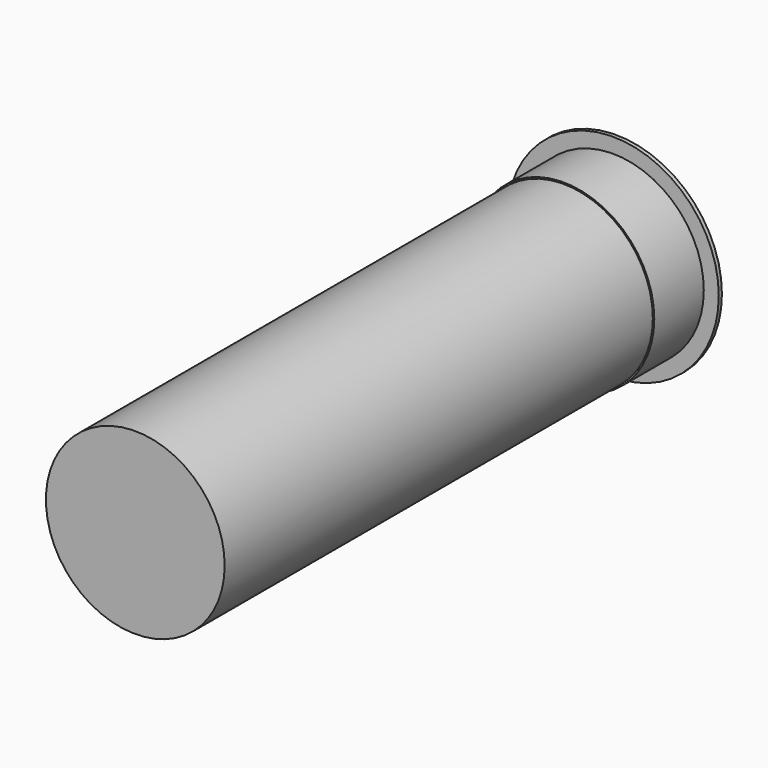
from build123d import *


with BuildPart() as f2:
    # F1 (on Top) → F2 (revolve)
    with BuildSketch(Plane.XY):
        with BuildLine():
            Line((2.8321, 23.669445), (0, 23.669445))
            Line((0, 23.669445), (0, 5.254445))
            ThreePointArc((0, 5.254445), (2.109889, 9.955816), (2.8321, 15.058063))
            Line((2.8321, 15.058063), (2.8321, 23.669445))
        make_face()
    revolve(axis=Axis((0, 14.461945, 0), (0, -1, 0)))


with BuildPart() as f3:
    # F0 (on Top) → F3 (revolve)
    with BuildSketch(Plane.XY):
        Polygon((0, 4.188876), (0, 0), (11.33, 0), (11.33, 67.852885), (11.511949, 67.852885), (11.511949, 75.7), (13.41, 75.7), (13.41, 76.2), (2.782592, 76.2), (2.782592, 76.625615), (0, 76.625615), (0, 76.2), (0, 67.852885), (5.665, 67.852885), (5.665, 39.612543), (0, 39.612543), (0, 38.1), (5.665, 38.1), (5.665, 4.188876), align=None)
    revolve(axis=Axis((0, 72.026442, 0), (0, -1, 0)))


solid = Compound([f2.part, f3.part])
